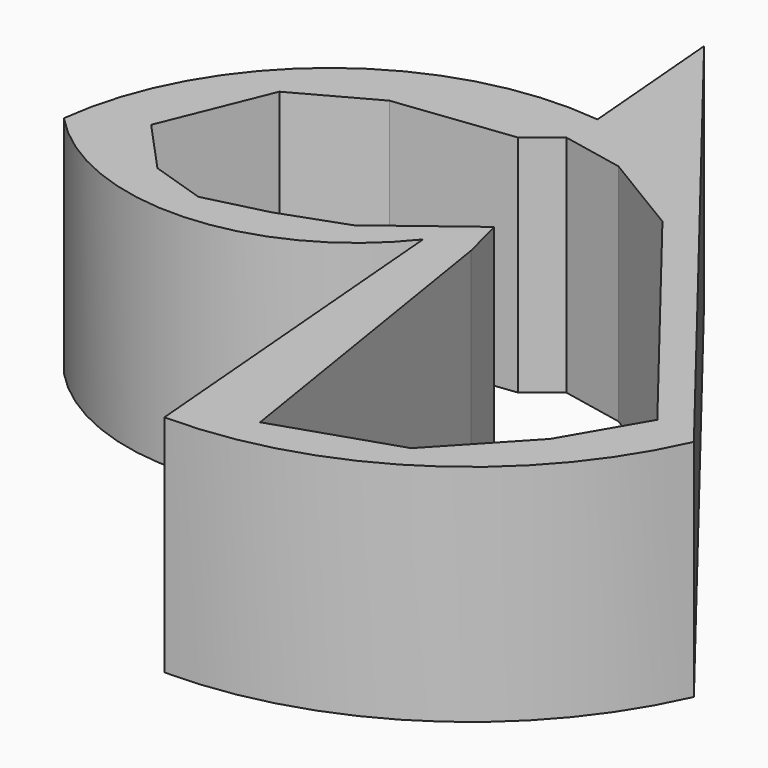
from build123d import *

# Parameters (mm, degrees)
F1_DEPTH = 25.4
F3_DEPTH = 25.4
F5_DEPTH = 25.4


with BuildPart() as f1:
    # F0 (on Top) → F1 (new body)
    with BuildSketch(Plane.XY):
        Polygon((-3.807562, -21.711232), (39.454739, -41.670527), (-7.130801, 18.008294), align=None)
        with BuildLine():
            Line((-3.807562, -21.711232), (0, -67.2194))
            ThreePointArc((0, -67.2194), (23.511012, -60.287986), (39.454739, -41.670527))
            Line((39.454739, -41.670527), (-3.807562, -21.711232))
        make_face()
    extrude(amount=F1_DEPTH)

    # F2 (on Top) → F3 (join)
    with BuildSketch(Plane.XY):
        with BuildLine():
            ThreePointArc((-42.670067, -28.083367), (-9.526807, -31.983188), (0, 0))
            ThreePointArc((0, 0), (-27.873553, -4.107011), (-42.670067, -28.083367))
        make_face()
    extrude(amount=F3_DEPTH)

    # F4 (on face) → F5 (cut)
    with BuildSketch(Plane.XY.offset(25.4)):
        Polygon((-9.030846, -5.911056), (-22.315262, -7.504281), (-11.007384, -7.504281), align=None)
        Polygon((-5.722075, -3.243963), (-9.030846, -5.911056), (1.316611, -4.670067), align=None)
        Polygon((-30.981028, -12.238209), (-35.863359, -24.257382), (-30.248286, -30.385217), (-24.002817, -32.40481), (-17.116513, -30.688128), (-9.888924, -28.083367), (0, -20.580618), (1.226096, -25.366375), (7.193933, -62.676668), (20.713773, -58.206778), (29.183986, -49.159691), (34.290549, -40.386488), (10.949366, -10.485058), (1.316611, -4.670067), (-9.030846, -5.911056), (-11.007384, -7.504281), (-22.315262, -7.504281), align=None)
    extrude(amount=-F5_DEPTH, mode=Mode.SUBTRACT)


solid = f1.part
